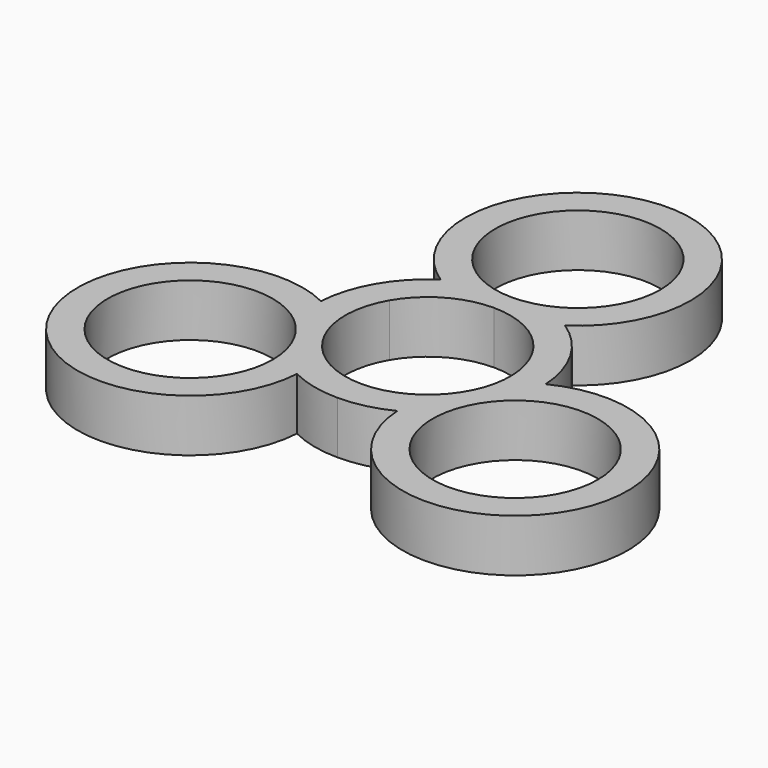
from build123d import *

# Parameters (mm, degrees)
F0_R     = 11
F1_DEPTH = 7


with BuildPart() as f1:
    # F0 (on Top) → F1 (new body)
    with BuildSketch(Plane.XY):
        with BuildLine():
            ThreePointArc((0, -11), (9.526279, -5.5), (9.526279, 5.5))
            ThreePointArc((9.526279, 5.5), (5.5, 9.526279), (0, 11))
            ThreePointArc((0, 11), (-5.5, 9.526279), (-9.526279, 5.5))
            ThreePointArc((-9.526279, 5.5), (-9.526279, -5.5), (0, -11))
        make_face()
        with BuildLine():
            ThreePointArc((0, 14), (7.778175, 17.221825), (11, 25))
            ThreePointArc((11, 25), (-7.778175, 32.778175), (0, 14))
        make_face()
        with BuildLine():
            ThreePointArc((8.291562, 12.5), (0, 40), (-8.291562, 12.5))
            ThreePointArc((-8.291562, 12.5), (-10.930703, 10.272279), (-12.990381, 7.5))
            ThreePointArc((-12.990381, 7.5), (-14.361407, 4.330127), (-14.971099, 0.930703))
            ThreePointArc((-14.971099, 0.930703), (-34.641016, -20), (-6.679537, -13.430703))
            ThreePointArc((-6.679537, -13.430703), (-3.430703, -14.602406), (0, -15))
            ThreePointArc((0, -15), (3.430703, -14.602406), (6.679537, -13.430703))
            ThreePointArc((6.679537, -13.430703), (34.641016, -20), (14.971099, 0.930703))
            ThreePointArc((14.971099, 0.930703), (14.361407, 4.330127), (12.990381, 7.5))
            ThreePointArc((12.990381, 7.5), (10.930703, 10.272279), (8.291562, 12.5))
        make_face()
        with Locations((-21.650635, -12.5)):
            Circle(F0_R, mode=Mode.SUBTRACT)
        with Locations((21.650635, -12.5)):
            Circle(F0_R, mode=Mode.SUBTRACT)
        with BuildLine():
            ThreePointArc((0, 11), (5.5, 9.526279), (9.526279, 5.5))
            ThreePointArc((9.526279, 5.5), (9.526279, -5.5), (0, -11))
            ThreePointArc((0, -11), (-9.526279, -5.5), (-9.526279, 5.5))
            ThreePointArc((-9.526279, 5.5), (-5.5, 9.526279), (0, 11))
        make_face(mode=Mode.SUBTRACT)
        with BuildLine():
            ThreePointArc((0, 14), (-7.778175, 32.778175), (11, 25))
            ThreePointArc((11, 25), (7.778175, 17.221825), (0, 14))
        make_face(mode=Mode.SUBTRACT)
    extrude(amount=F1_DEPTH)


solid = f1.part
